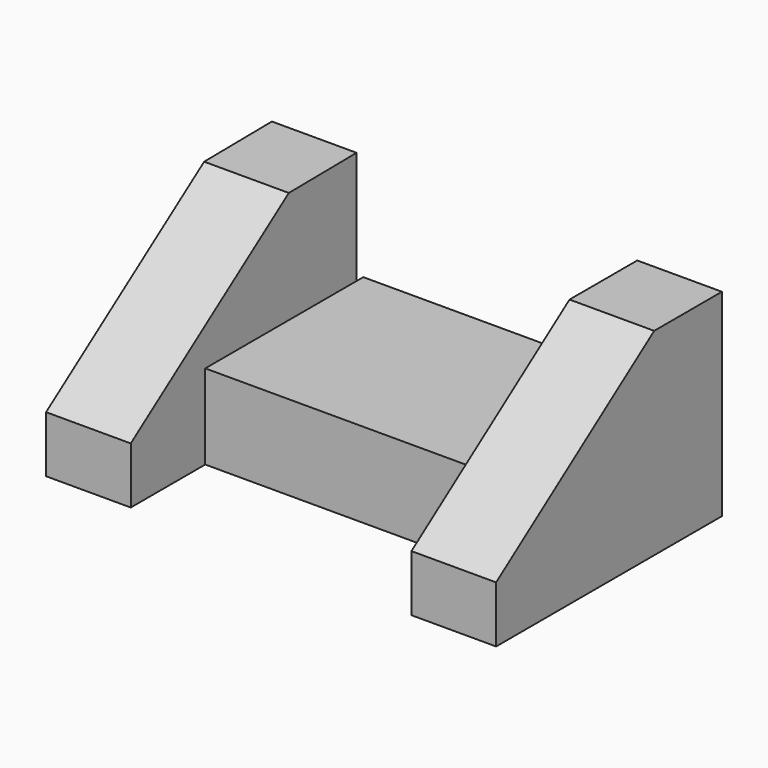
from build123d import *

# Parameters (mm, degrees)
F1_W     = 44.45
F1_H     = 19.05
F2_DEPTH = 63.5
F3_DEPTH = 19.05
F5_DEPTH = 19.05


with BuildPart() as f2:
    # F1 (on face) → F2 (new body)
    with BuildSketch(Plane.YZ):
        with Locations((22.225, 18.076053)):
            Rectangle(F1_W, F1_H)
    extrude(amount=-F2_DEPTH)

    # F0 (on Right) → F3 (join)
    with BuildSketch(Plane.YZ):
        Polygon((42.11467, 52.503103), (23.06467, 52.503103), (-21.38533, 20.753103), (-21.38533, 8.053103), (42.11467, 8.053103), align=None)
    extrude(amount=F3_DEPTH)

    # F4 (on face) → F5 (join)
    with BuildSketch(Plane(origin=(-63.5, 0, 0), x_dir=(0, -1, 0), z_dir=(-1, 0, 0))):
        Polygon((-23.505, 52.787023), (-42.553797, 53.001053), (-42.553797, 8.551053), (20.946203, 8.551053), (20.946203, 21.251053), align=None)
    extrude(amount=F5_DEPTH)


solid = f2.part
